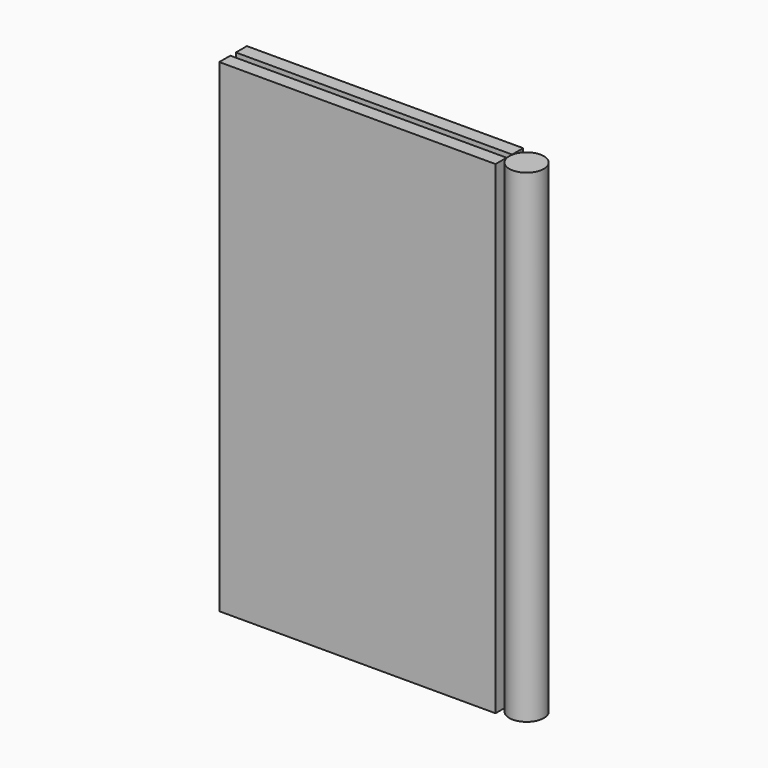
from build123d import *

# Parameters (mm, degrees)
BOX009001003002001001_W     = 2
BOX009001003002001001_H     = 40
BOX009001003002001001_DEPTH = 70
BOX009001003002002_W        = 2
BOX009001003002002_H        = 40
BOX009001003002002_DEPTH    = 70
CYLINDER005001001002_R      = 2.5
CYLINDER005001001002_DEPTH  = 70
FUSION002_PLACEMENT_ANGLE   = 90


with BuildPart() as obj1:
    # Box009001003002001001 → Box009001003002001001 (new body)
    with BuildSketch(Plane(origin=(3, 0, 0), x_dir=(1, 0, 0), z_dir=(0, 0, 1))):
        with Locations((1, 20)):
            Rectangle(BOX009001003002001001_W, BOX009001003002001001_H)
    extrude(amount=BOX009001003002001001_DEPTH)


with BuildPart() as obj2:
    # Box009001003002002 → Box009001003002002 (new body)
    with BuildSketch(Plane.XY):
        with Locations((1, 20)):
            Rectangle(BOX009001003002002_W, BOX009001003002002_H)
    extrude(amount=BOX009001003002002_DEPTH)


with BuildPart() as hinge003:
    # Cylinder005001001002 → Cylinder005001001002 (new body)
    with BuildSketch(Plane(origin=(2.5, -2.5, 0), x_dir=(1, 0, 0), z_dir=(0, 0, 1))):
        Circle(CYLINDER005001001002_R)
    extrude(amount=CYLINDER005001001002_DEPTH)

    # Fusion002: union obj1, obj2
    add(obj1.part)
    add(obj2.part)


with BuildPart() as hinge003_1:
    # Fusion002 placement: moved
    add(hinge003.part.moved(Location((2173, 1643, 1875.5))).rotate(Axis((2173, 1643, 1875.5), (0, 0, 1)), FUSION002_PLACEMENT_ANGLE))


solid = hinge003_1.part
